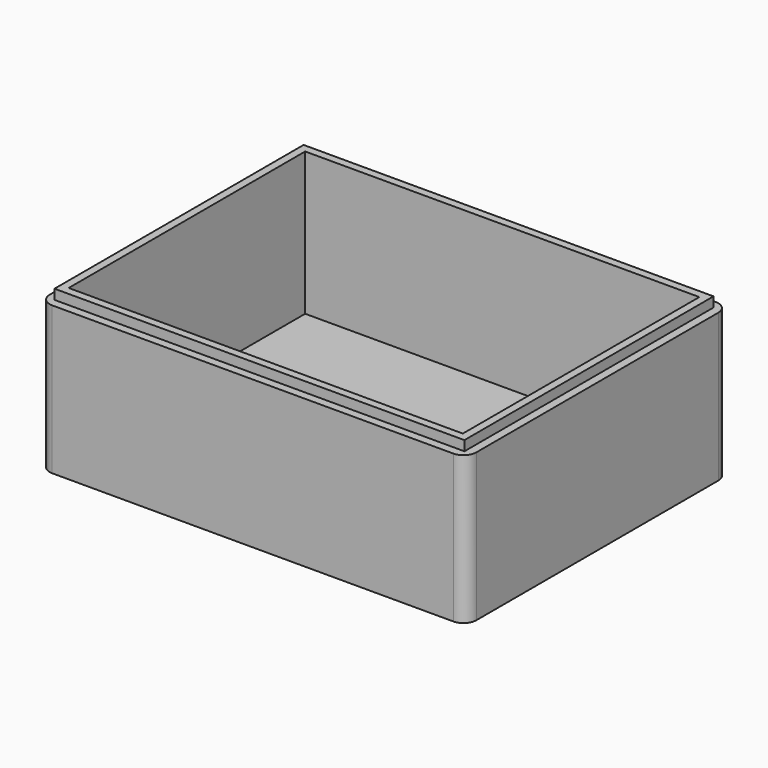
from build123d import *

# Parameters (mm, degrees)
F0_W     = 43.3
F0_H     = 33.3
F0_W_2   = 40
F0_H_2   = 30
F1_DEPTH = 15
F2_DEPTH = 1.5
F3_W     = 41.6
F3_H     = 31.6
F3_W_2   = 40
F3_H_2   = 30
F4_DEPTH = 1
F5_R     = 1.3


with BuildPart() as f1:
    # F0 (on Top) → F1 (new body)
    with BuildSketch(Plane.XY):
        Rectangle(F0_W, F0_H)
        Rectangle(F0_W_2, F0_H_2, mode=Mode.SUBTRACT)
    extrude(amount=F1_DEPTH)

    # F0 (on Top) → F2 (join)
    with BuildSketch(Plane.XY):
        Rectangle(F0_W_2, F0_H_2)
    extrude(amount=F2_DEPTH)

    # F3 (on face) → F4 (join)
    with BuildSketch(Plane.XY.offset(15)):
        Rectangle(F3_W, F3_H)
        Rectangle(F3_W_2, F3_H_2, mode=Mode.SUBTRACT)
    extrude(amount=F4_DEPTH)

    # F5
    f5_edges = [f1.edges().sort_by_distance(p)[0] for p in [
        (-21.65, -16.65, 7.5),
        (21.65, -16.65, 7.5),
        (21.65, 16.65, 7.5),
        (-21.65, 16.65, 7.5),
    ]]
    fillet(f5_edges, radius=F5_R)


solid = f1.part
